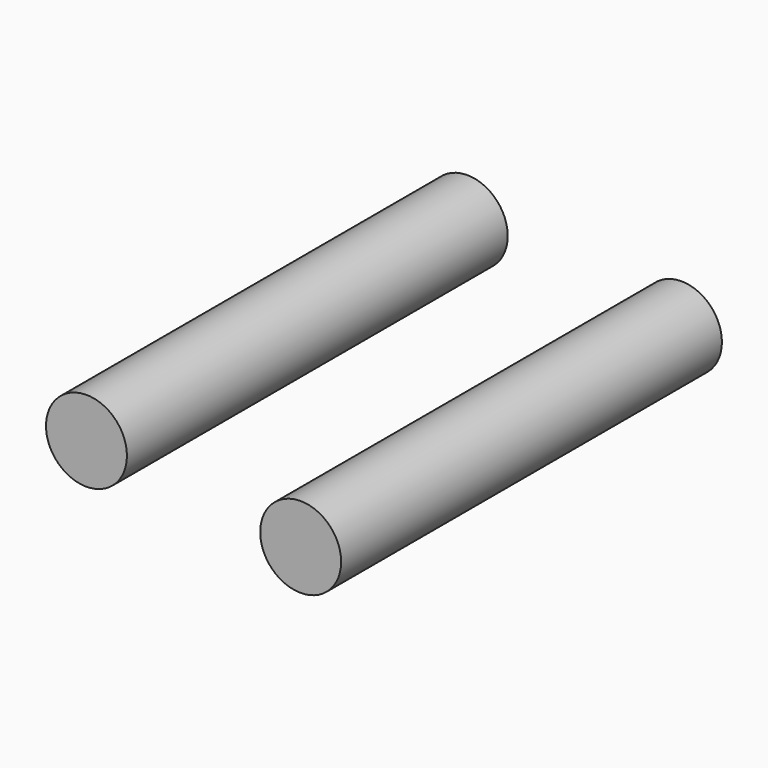
from build123d import *

# Parameters (mm, degrees)
CYLINDER105_R          = 1.7
CYLINDER105_DEPTH      = 20
CYLINDER105_ROLL_ANGLE = 90
CYLINDER106_R          = 1.7
CYLINDER106_DEPTH      = 20
CYLINDER106_ROLL_ANGLE = 90


with BuildPart() as cylinder105:
    # Cylinder105 → Cylinder105 (new body)
    with BuildSketch(Plane.XY):
        Circle(CYLINDER105_R)
    extrude(amount=CYLINDER105_DEPTH)


with BuildPart() as cylinder105_1:
    # Cylinder105 roll: moved
    add(cylinder105.part.rotate(Axis((0, 0, 0), (1, 0, 0)), CYLINDER105_ROLL_ANGLE))


with BuildPart() as cylinder105_2:
    # Cylinder105 placement: moved
    add(cylinder105_1.part.moved(Location((26, 10, -35))))


with BuildPart() as adjuster_m3_holes:
    # Cylinder106 → Cylinder106 (new body)
    with BuildSketch(Plane.XY):
        Circle(CYLINDER106_R)
    extrude(amount=CYLINDER106_DEPTH)


with BuildPart() as adjuster_m3_holes_1:
    # Cylinder106 roll: moved
    add(adjuster_m3_holes.part.rotate(Axis((0, 0, 0), (1, 0, 0)), CYLINDER106_ROLL_ANGLE))


with BuildPart() as adjuster_m3_holes_2:
    # Cylinder106 placement: moved
    add(adjuster_m3_holes_1.part.moved(Location((35, 10, -36))))

    # Fusion107: union Cylinder105
    add(cylinder105_2.part)


solid = adjuster_m3_holes_2.part
